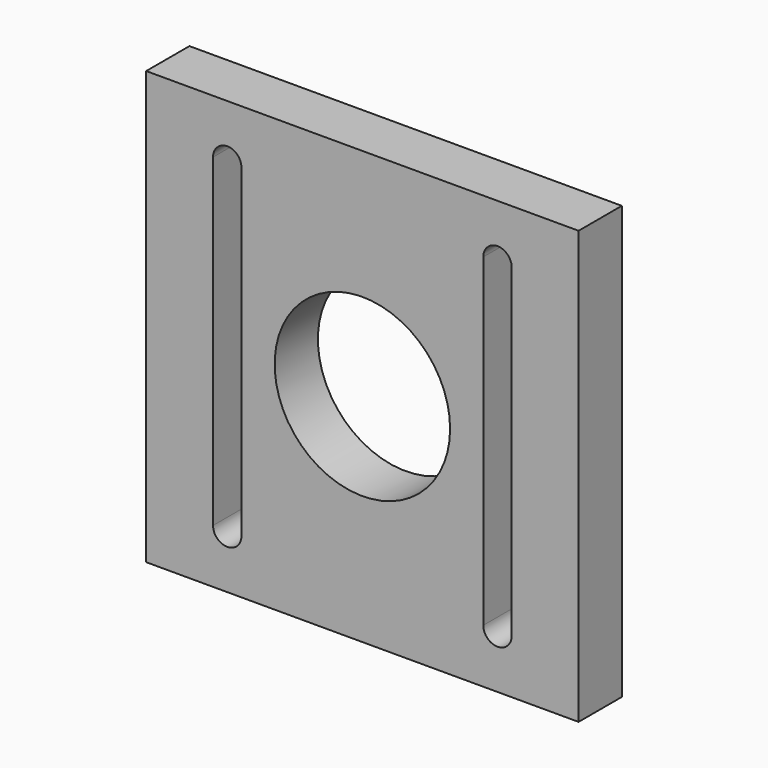
from build123d import *

# Parameters (mm, degrees)
F0_W     = 101.6
F0_H     = 101.6
F0_R     = 20.6121
F1_DEPTH = 12.7
F3_DEPTH = 12.701


with BuildPart() as f1:
    # F0 (on Front) → F1 (new body)
    with BuildSketch(Plane.XZ):
        Rectangle(F0_W, F0_H)
        Circle(F0_R, mode=Mode.SUBTRACT)
    extrude(amount=F1_DEPTH)

    # F2 (on face) → F3 (cut, through all)
    with BuildSketch(Plane.XZ.offset(12.7)):
        with BuildLine():
            Line((35.0901, -38.1), (35.0901, 38.1))
            ThreePointArc((35.0901, 38.1), (31.75, 41.4401), (28.4099, 38.1))
            Line((28.4099, 38.1), (28.4099, -38.1))
            ThreePointArc((28.4099, -38.1), (31.75, -41.4401), (35.0901, -38.1))
        make_face()
        with BuildLine():
            Line((-28.4099, -38.1), (-28.4099, 38.1))
            ThreePointArc((-28.4099, 38.1), (-31.75, 41.4401), (-35.0901, 38.1))
            Line((-35.0901, 38.1), (-35.0901, -38.1))
            ThreePointArc((-35.0901, -38.1), (-31.75, -41.4401), (-28.4099, -38.1))
        make_face()
    extrude(amount=-F3_DEPTH, mode=Mode.SUBTRACT)


solid = f1.part
